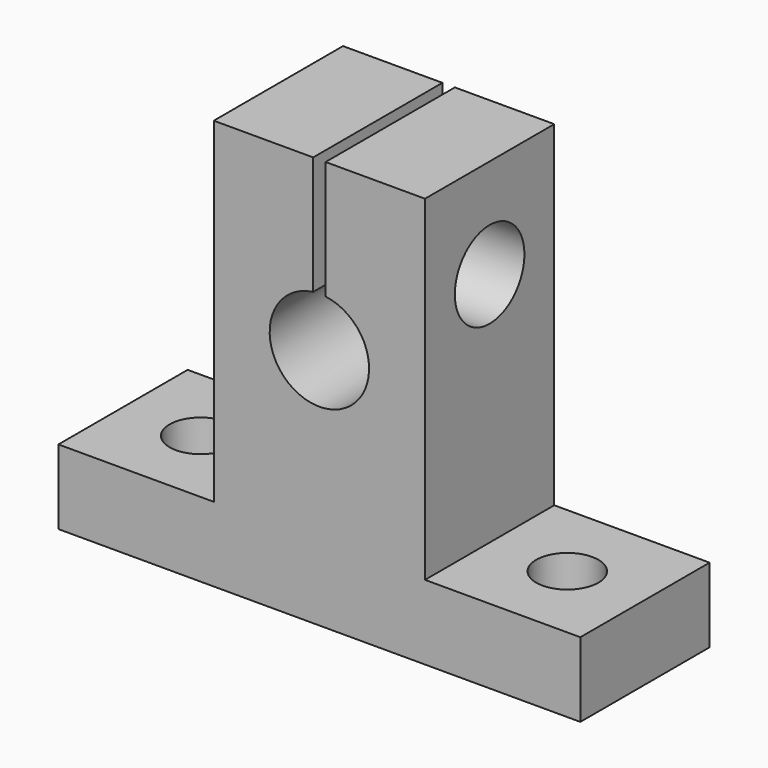
from build123d import *

# Parameters (mm, degrees)
F0_W      = 42
F0_H      = 13
F1_DEPTH  = 6
F2_W      = 17
F2_H      = 13
F5_DEPTH  = 27
F3_R      = 2.5
F6_DEPTH  = 6
F4_R      = 2.5
F7_DEPTH  = 6
F8_R      = 4
F9_DEPTH  = 15
F10_R     = 3.5
F11_DEPTH = 20
F12_W     = 1
F12_H     = 13
F13_DEPTH = 13


with BuildPart() as f1:
    # F0 (on Top) → F1 (new body)
    with BuildSketch(Plane.XY):
        Rectangle(F0_W, F0_H)
    extrude(amount=-F1_DEPTH)

    # F2 (on Top) → F5 (join)
    with BuildSketch(Plane.XY):
        Rectangle(F2_W, F2_H)
    extrude(amount=F5_DEPTH)

    # F3 (on Top) → F6 (cut)
    with BuildSketch(Plane.XY):
        with Locations((14.75, 0)):
            Circle(F3_R)
    extrude(amount=-F6_DEPTH, mode=Mode.SUBTRACT)

    # F4 (on Top) → F7 (cut)
    with BuildSketch(Plane.XY):
        with Locations((-14.75, 0)):
            Circle(F4_R)
    extrude(amount=-F7_DEPTH, mode=Mode.SUBTRACT)

    # F8 (on face) → F9 (cut)
    with BuildSketch(Plane.XZ.offset(6.5)):
        with Locations((0, 13.5)):
            Circle(F8_R)
    extrude(amount=-F9_DEPTH, mode=Mode.SUBTRACT)

    # F10 (on face) → F11 (cut)
    with BuildSketch(Plane.YZ.offset(8.5)):
        with Locations((0, 19)):
            Circle(F10_R)
    extrude(amount=-F11_DEPTH, mode=Mode.SUBTRACT)

    # F12 (on face) → F13 (cut)
    with BuildSketch(Plane.XY.offset(27)):
        Rectangle(F12_W, F12_H)
    extrude(amount=-F13_DEPTH, mode=Mode.SUBTRACT)


solid = f1.part
